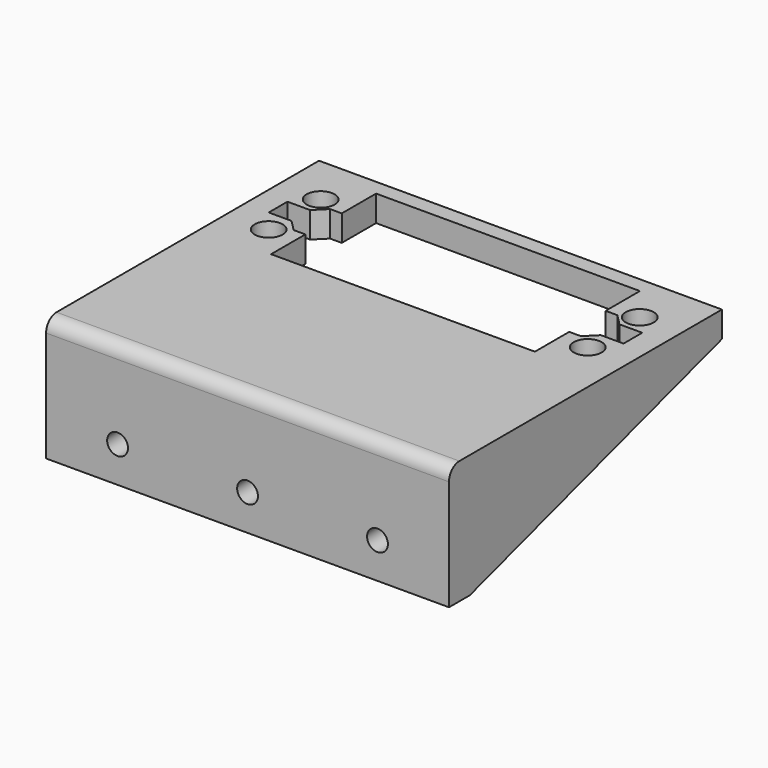
from build123d import *

# Parameters (mm, degrees)
SKETCH_W        = 62
SKETCH_H        = 52.5
SKETCH_R        = 2.15
SKETCH_W_2      = 40.6
SKETCH_H_2      = 20.2
PAD_DEPTH       = 4
SKETCH001_W     = 62
SKETCH001_H     = 4
PAD001_DEPTH    = 15
PAD002_DEPTH    = 1
FILLET_R        = 4
SKETCH003_R     = 1.6
POCKET_DEPTH    = 4.001
POCKET001_DEPTH = 19.001
FILLET001_R     = 2


with BuildPart() as part:
    # Sketch → Pad (new body)
    with BuildSketch(Plane.XY):
        Rectangle(SKETCH_W, SKETCH_H)
        with Locations((-24.55, 18.5)):
            Circle(SKETCH_R, mode=Mode.SUBTRACT)
        with Locations((-24.55, 8.5)):
            Circle(SKETCH_R, mode=Mode.SUBTRACT)
        with Locations((24.55, 18.5)):
            Circle(SKETCH_R, mode=Mode.SUBTRACT)
        with Locations((24.55, 8.5)):
            Circle(SKETCH_R, mode=Mode.SUBTRACT)
        with Locations((0, 13.75)):
            Rectangle(SKETCH_W_2, SKETCH_H_2, mode=Mode.SUBTRACT)
    extrude(amount=PAD_DEPTH)

    # Sketch001 (on Face13 of Pad) → Pad001 (join)
    with BuildSketch(Plane(origin=(0, 0, 0), x_dir=(1, 0, 0), z_dir=(0, 0, -1))):
        with Locations((0, 24.25)):
            Rectangle(SKETCH001_W, SKETCH001_H)
    extrude(amount=PAD001_DEPTH)

    # Sketch002 (on Face16 of Pad001) → Pad002 (join)
    with BuildSketch(Plane.YZ.offset(31)):
        Polygon((-22.25, 0), (-22.25, -15), (26.25, 0), align=None)
    pad002 = extrude(amount=-PAD002_DEPTH)

    # Mirrored: Pad002 across YZ
    add(pad002.mirror(Plane.YZ))

    # Fillet
    fillet_edges = [part.edges().sort_by_distance(p)[0] for p in [
        (0, -22.25, 0),
    ]]
    fillet(fillet_edges, radius=FILLET_R)

    # Sketch003 (on Face14 of Fillet) → Pocket (cut, through all)
    with BuildSketch(Plane(origin=(0, -22.25, 0), x_dir=(-1, 0, 0), z_dir=(0, 1, 0))):
        with Locations((-20, -9.5)):
            Circle(SKETCH003_R)
        with Locations((20, -9.5)):
            Circle(SKETCH003_R)
        with Locations((0, -9.5)):
            Circle(SKETCH003_R)
    extrude(amount=-POCKET_DEPTH, mode=Mode.SUBTRACT)

    # Sketch005 (on Face19 of Pocket) → Pocket001 (cut, through all)
    with BuildSketch(Plane.XY.offset(4)):
        Polygon((-20.3, 17.25), (-22.1, 17.25), (-23.8, 15.55), (-27.3, 15.55), (-27.3, 11.95), (-23.8, 11.95), (-22.1, 10.25), (-20.3, 10.25), align=None)
        Polygon((20.3, 17.25), (22.1, 17.25), (23.8, 15.55), (27.3, 15.55), (27.3, 11.95), (23.8, 11.95), (22.1, 10.25), (20.3, 10.25), align=None)
    extrude(amount=-POCKET001_DEPTH, mode=Mode.SUBTRACT)

    # Fillet001
    fillet001_edges = [part.edges().sort_by_distance(p)[0] for p in [
        (0, -26.25, 4),
    ]]
    fillet(fillet001_edges, radius=FILLET001_R)


solid = part.part
